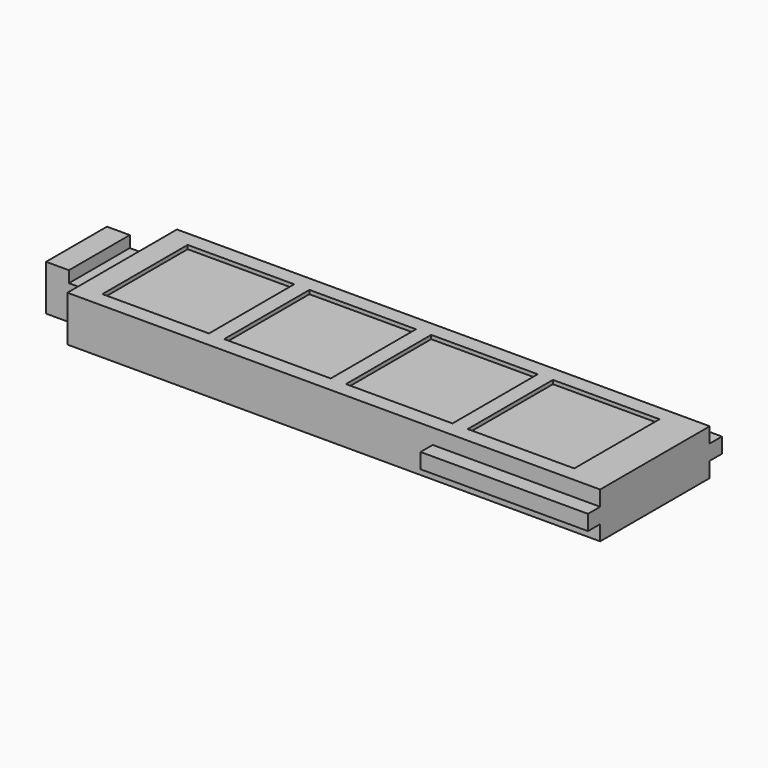
from build123d import *

# Parameters (mm, degrees)
F1_DEPTH = 4.5
F2_W     = 7
F2_H     = 7
F3_DEPTH = 0.75
F4_DEPTH = 0.5
F6_DEPTH = 1
F0_W     = 1.5
F0_H     = 1.5
F8_DEPTH = 2.5


with BuildPart() as f1:
    # F0 (on Front) → F1 (new body, symmetric)
    with BuildSketch(Plane.XZ):
        Polygon((35, 3), (0, 3), (0, 2.25), (0, 0.75), (0, 0), (35, 0), align=None)
    extrude(amount=F1_DEPTH, both=True)

    # F2 (on face) → F3 (cut)
    with BuildSketch(Plane.XY.offset(3)):
        with Locations((29, 0)):
            Rectangle(F2_W, F2_H)
        with Locations((21, 0)):
            Rectangle(F2_W, F2_H)
        with Locations((13, 0)):
            Rectangle(F2_W, F2_H)
        with Locations((5, 0)):
            Rectangle(F2_W, F2_H)
    extrude(amount=-F3_DEPTH, mode=Mode.SUBTRACT)

    # F5 (on face) → F6 (join)
    with BuildSketch(Plane.XZ.offset(4.5)):
        Polygon((35, 1), (35, 2), (34, 2), (24, 2), (24, 1), (34, 1), align=None)
    extrude(amount=F6_DEPTH)


with BuildPart() as f4:
    # F2 (on face) → F4 (new body)
    with BuildSketch(Plane.XY.offset(3)):
        with Locations((5, 0)):
            Rectangle(F2_W, F2_H)
    extrude(amount=-F4_DEPTH)


with BuildPart() as f4b:
    # F2 (on face) → F4, piece 2 (new body)
    with BuildSketch(Plane.XY.offset(3)):
        with Locations((13, 0)):
            Rectangle(F2_W, F2_H)
    extrude(amount=-F4_DEPTH)


with BuildPart() as f4c:
    # F2 (on face) → F4, piece 3 (new body)
    with BuildSketch(Plane.XY.offset(3)):
        with Locations((21, 0)):
            Rectangle(F2_W, F2_H)
    extrude(amount=-F4_DEPTH)


with BuildPart() as f4d:
    # F2 (on face) → F4, piece 4 (new body)
    with BuildSketch(Plane.XY.offset(3)):
        with Locations((29, 0)):
            Rectangle(F2_W, F2_H)
    extrude(amount=-F4_DEPTH)


with BuildPart() as f7_1:
    # F7: instance of F1
    add(f1.part.mirror(Plane.XZ))


with BuildPart() as f1_1:
    add(f1.part)

    add(f7_1.part)  # F8 merges F7_1
    # F0 (on Front) → F8 (join, symmetric)
    with BuildSketch(Plane.XZ):
        Polygon((-1.5, 0.75), (-1.5, 2.25), (-1.5, 3), (-3, 3), (-3, 0), (-1.5, 0), align=None)
        with Locations((-0.75, 1.5)):
            Rectangle(F0_W, F0_H)
    extrude(amount=F8_DEPTH, both=True)


with BuildPart() as f4c_1:
    # F9: moved
    add(f4c.part.moved(Location((0, 0, -0.25))))


with BuildPart() as f4b_1:
    # F9: moved
    add(f4b.part.moved(Location((0, 0, -0.25))))


with BuildPart() as f4_1:
    # F9: moved
    add(f4.part.moved(Location((0, 0, -0.25))))


with BuildPart() as f4d_1:
    # F9: moved
    add(f4d.part.moved(Location((0, 0, -0.25))))


solid = Compound([f1_1.part, f4c_1.part, f4b_1.part, f4_1.part, f4d_1.part])
